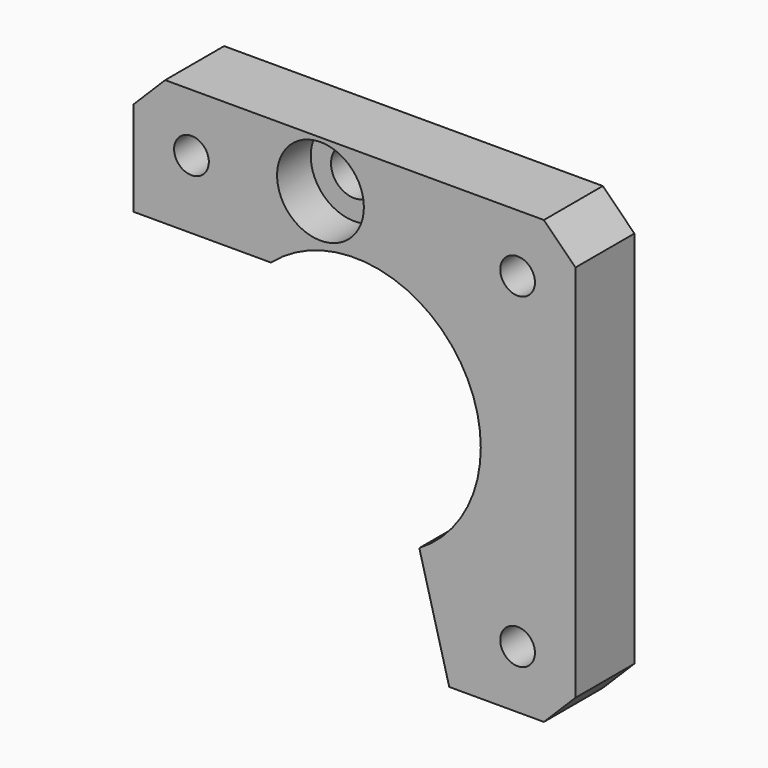
from build123d import *

# Parameters (mm, degrees)
F0_W            = 42
F0_H            = 42
F1_DEPTH        = 7
F2_R            = 12
F3_DEPTH        = 25
F5_DEPTH        = 25
F7_D            = 3.3
F7_DEPTH        = 13.5
F7_TIP          = 0.9914200214
F8_SIZE         = 3
F10_D           = 4.4
F10_CBORE_D     = 8.25
F10_CBORE_DEPTH = 4


with BuildPart() as f1:
    # F0 (on Front) → F1 (new body)
    with BuildSketch(Plane.XZ):
        with Locations((21, 21)):
            Rectangle(F0_W, F0_H)
    extrude(amount=F1_DEPTH)

    # F2 (on face) → F3 (cut)
    with BuildSketch(Plane.XZ.offset(7)):
        with Locations((21, 21)):
            Circle(F2_R)
    extrude(amount=-F3_DEPTH, mode=Mode.SUBTRACT)

    # F4 (on face) → F5 (cut)
    with BuildSketch(Plane.XZ.offset(7)):
        with BuildLine():
            Line((13.0627460668, 30), (0, 30))
            Line((0, 30), (0, 0))
            Line((0, 0), (30, 0))
            Line((30, 0), (27.1547311219, 10.698578505))
            ThreePointArc((27.1547311219, 10.698578505), (11.3082217924, 13.9240240832), (13.0627460668, 30))
        make_face()
        with BuildLine():
            Line((22.0215506852, 30), (13.0627460668, 30))
            ThreePointArc((13.0627460668, 30), (11.3082217924, 13.9240240832), (27.1547311219, 10.698578505))
            Line((27.1547311219, 10.698578505), (22.0215506852, 30))
        make_face()
    extrude(amount=-F5_DEPTH, mode=Mode.SUBTRACT)

    # F7
    with Locations(Plane.XZ.offset(7)):
        with Locations((5.5, 36.5), (36.5, 36.5), (36.5, 5.5)):
            Hole(F7_D / 2, depth=F7_DEPTH)
            with Locations((0, 0, -(F7_DEPTH + F7_TIP / 2))):  # 118° drill point
                Cone(0, F7_D / 2, F7_TIP, mode=Mode.SUBTRACT)

    # F8
    f8_edges = [f1.edges().sort_by_distance(p)[0] for p in [
        (0, -3.5, 42),
        (42, -3.5, 42),
        (42, -3.5, 0),
    ]]
    chamfer(f8_edges, length=F8_SIZE)

    # F10 (through all)
    with Locations(Plane.XZ.offset(7)):
        with Locations((17.7627056837, 37.4929197133)):
            CounterBoreHole(F10_D / 2, F10_CBORE_D / 2, F10_CBORE_DEPTH)


solid = f1.part
